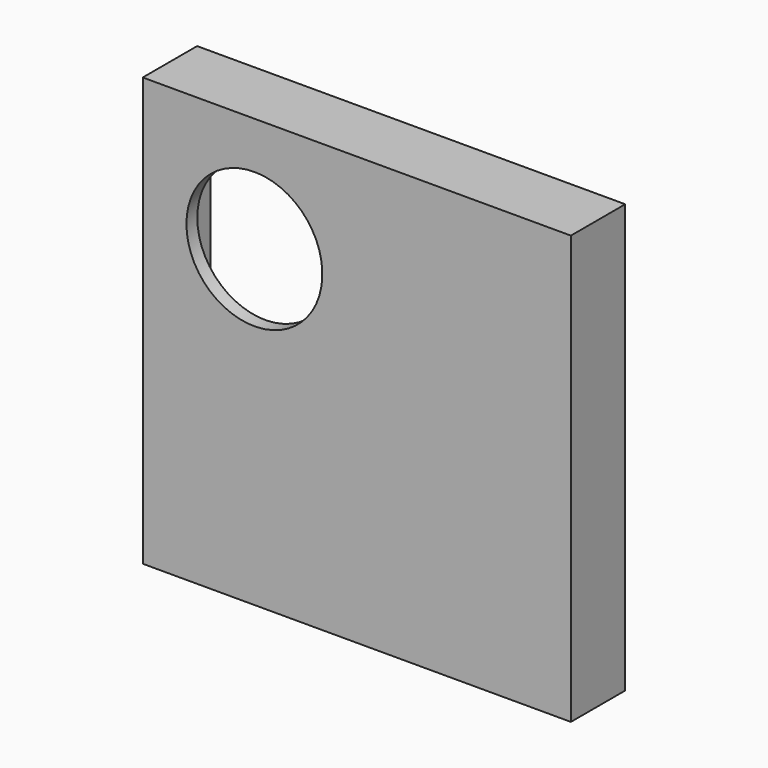
from build123d import *

# Parameters (mm, degrees)
F0_W     = 80.01
F0_H     = 80.01
F1_DEPTH = 12.7
F2_W     = 74.93
F2_H     = 74.93
F3_DEPTH = 10.16
F4_R     = 12.7
F5_DEPTH = 25.4


with BuildPart() as f1:
    # F0 (on Front) → F1 (new body)
    with BuildSketch(Plane.XZ):
        Rectangle(F0_W, F0_H)
    extrude(amount=F1_DEPTH)

    # F2 (on face) → F3 (cut)
    with BuildSketch(Plane(origin=(0, 0, 0), x_dir=(-1, 0, 0), z_dir=(0, 1, 0))):
        Rectangle(F2_W, F2_H)
    extrude(amount=-F3_DEPTH, mode=Mode.SUBTRACT)

    # F4 (on face) → F5 (cut)
    with BuildSketch(Plane(origin=(0, -10.16, 0), x_dir=(-1, 0, 0), z_dir=(0, 1, 0))):
        with Locations((19.145673, 18.554756)):
            Circle(F4_R)
    extrude(amount=-F5_DEPTH, mode=Mode.SUBTRACT)


solid = f1.part
